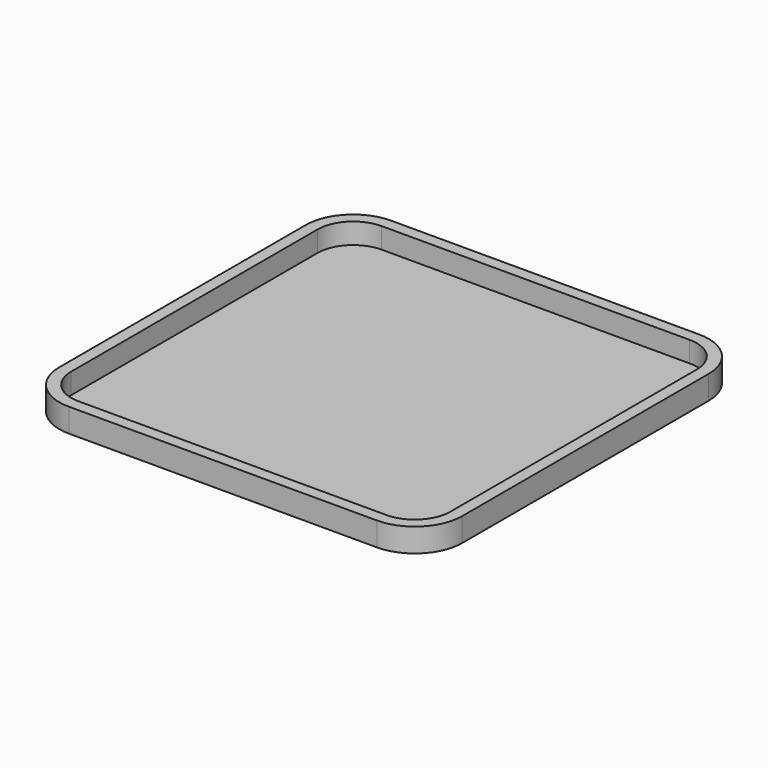
from build123d import *

# Parameters (mm, degrees)
F1_DEPTH = 50.8
F3_DEPTH = 6.35


with BuildPart() as f1:
    # F0 (on Top) → F1 (new body)
    with BuildSketch(Plane.XY):
        with BuildLine():
            ThreePointArc((431.8, 330.2), (402.042049, 402.042049), (330.2, 431.8))
            Line((330.2, 431.8), (-330.2, 431.8))
            ThreePointArc((-330.2, 431.8), (-402.042049, 402.042049), (-431.8, 330.2))
            Line((-431.8, 330.2), (-431.8, -330.2))
            ThreePointArc((-431.8, -330.2), (-402.042049, -402.042049), (-330.2, -431.8))
            Line((-330.2, -431.8), (330.2, -431.8))
            ThreePointArc((330.2, -431.8), (402.042049, -402.042049), (431.8, -330.2))
            Line((431.8, -330.2), (431.8, 330.2))
        make_face()
        with BuildLine():
            ThreePointArc((330.2, 406.4), (384.081537, 384.081537), (406.4, 330.2))
            Line((406.4, 330.2), (406.4, -330.2))
            ThreePointArc((406.4, -330.2), (384.081537, -384.081537), (330.2, -406.4))
            Line((330.2, -406.4), (-330.2, -406.4))
            ThreePointArc((-330.2, -406.4), (-384.081537, -384.081537), (-406.4, -330.2))
            Line((-406.4, -330.2), (-406.4, 330.2))
            ThreePointArc((-406.4, 330.2), (-384.081537, 384.081537), (-330.2, 406.4))
            Line((-330.2, 406.4), (330.2, 406.4))
        make_face(mode=Mode.SUBTRACT)
    extrude(amount=F1_DEPTH)

    # F2 (on Top) → F3 (join)
    with BuildSketch(Plane.XY):
        with BuildLine():
            Line((330.2, 406.4), (-330.2, 406.4))
            ThreePointArc((-330.2, 406.4), (-384.081537, 384.081537), (-406.4, 330.2))
            Line((-406.4, 330.2), (-406.4, -330.2))
            ThreePointArc((-406.4, -330.2), (-384.081537, -384.081537), (-330.2, -406.4))
            Line((-330.2, -406.4), (330.2, -406.4))
            ThreePointArc((330.2, -406.4), (384.081537, -384.081537), (406.4, -330.2))
            Line((406.4, -330.2), (406.4, 330.2))
            ThreePointArc((406.4, 330.2), (384.081537, 384.081537), (330.2, 406.4))
        make_face()
    extrude(amount=F3_DEPTH)


solid = f1.part
